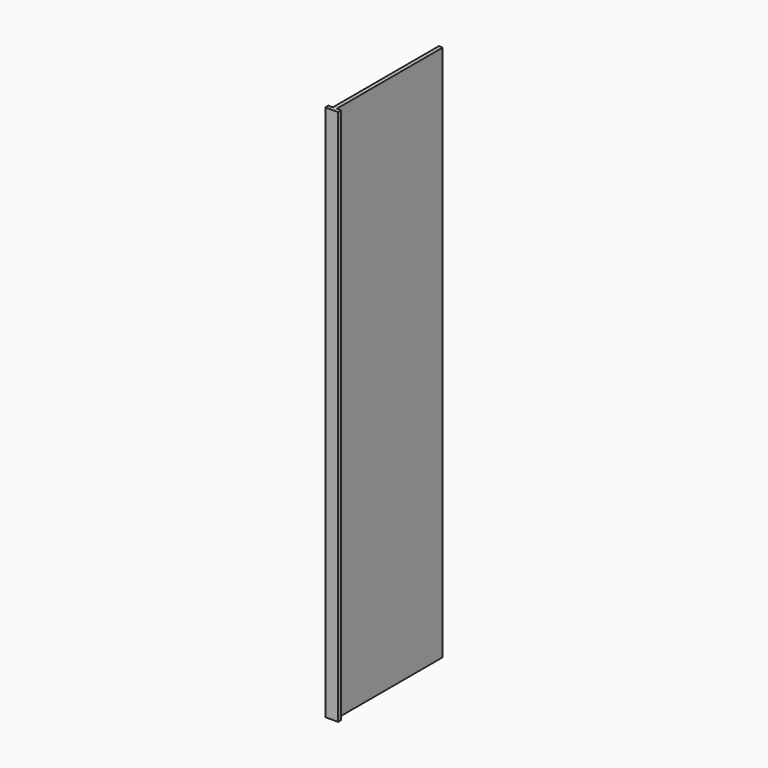
from build123d import *

# Parameters (mm, degrees)
F0_W     = 635
F0_H     = 2500
F1_DEPTH = 18
F2_W     = 60
F2_H     = 18
F3_DEPTH = 2500


with BuildPart() as f1:
    # F0 (on Right) → F1 (new body)
    with BuildSketch(Plane.YZ):
        Rectangle(F0_W, F0_H)
    extrude(amount=F1_DEPTH)

    # F2 (on face) → F3 (join)
    with BuildSketch(Plane.XY.offset(1250)):
        with Locations((9, -308.5)):
            Rectangle(F2_W, F2_H)
    extrude(amount=-F3_DEPTH)


solid = f1.part
